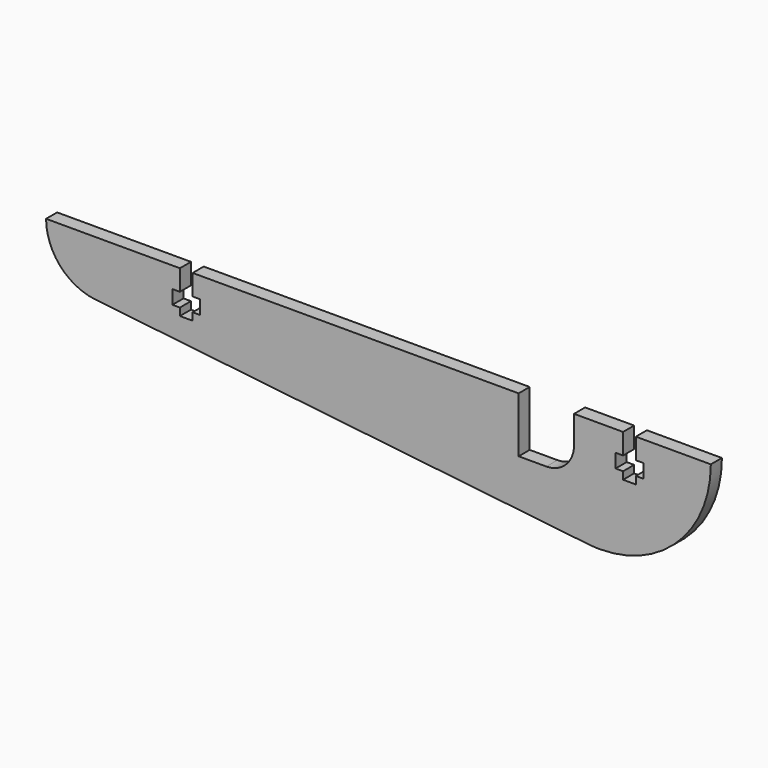
from build123d import *

# Parameters (mm, degrees)
F0_W     = 6.35
F0_H     = 3.175
F1_DEPTH = 3.175


with BuildPart() as f1:
    # F0 (on Front) → F1 (new body)
    with BuildSketch(Plane.XZ):
        with BuildLine():
            ThreePointArc((-28.2222222222, -25.242722946), (-44.3320422095, -16.9333333333), (-50.8, 0))
            Line((-50.8, 0), (-118.8018673797, 0))
            Line((-118.8018673797, 0), (-118.8018673797, -4.7625))
            Line((-118.8018673797, -4.7625), (-117.0873673797, -4.7625))
            Line((-117.0873673797, -4.7625), (-117.0873673797, -7.9375))
            Line((-117.0873673797, -7.9375), (-118.8018673797, -7.9375))
            Line((-118.8018673797, -7.9375), (-118.8018673797, -9.652))
            Line((-118.8018673797, -9.652), (-121.7228673797, -9.652))
            Line((-121.7228673797, -9.652), (-121.7228673797, -7.9375))
            Line((-121.7228673797, -7.9375), (-123.4373673797, -7.9375))
            Line((-123.4373673797, -7.9375), (-123.4373673797, -4.7625))
            Line((-123.4373673797, -4.7625), (-121.7228673797, -4.7625))
            Line((-121.7228673797, -4.7625), (-121.7228673797, 0))
            Line((-121.7228673797, 0), (-127, 0))
            ThreePointArc((-127, 0), (-131.2333333333, -9.4660211047), (-141.1111111111, -12.621361473))
            Line((-141.1111111111, -12.621361473), (-28.2222222222, -25.242722946))
        make_face()
        with Locations((-87.5789447389, -6.35)):
            Rectangle(F0_W, F0_H, mode=Mode.SUBTRACT)
        with Locations((-87.5789447389, -6.35)):
            Rectangle(F0_W, F0_H)
        with BuildLine():
            ThreePointArc((-28.2222222222, -25.242722946), (-26.8133006, -25.3606502561), (-25.4, -25.4))
            Line((-25.4, -25.4), (-25.4, 0))
            Line((-25.4, 0), (-31.3623673797, 0))
            Line((-31.3623673797, 0), (-31.3623673797, -6.35))
            Line((-31.3623673797, -6.35), (-31.3623673797, -12.7))
            Line((-31.3623673797, -12.7), (-37.7123673797, -12.7))
            Line((-37.7123673797, -12.7), (-44.0623673797, -12.7))
            Line((-44.0623673797, -12.7), (-44.0623673797, -6.35))
            Line((-44.0623673797, -6.35), (-44.0623673797, 0))
            Line((-44.0623673797, 0), (-50.8, 0))
            ThreePointArc((-50.8, 0), (-44.3320422095, -16.9333333333), (-28.2222222222, -25.242722946))
        make_face()
        with BuildLine():
            ThreePointArc((-28.2222222222, -25.242722946), (-26.8133006, -25.3606502561), (-25.4, -25.4))
            Line((-25.4, -25.4), (-25.4, 0))
            Line((-25.4, 0), (-31.3623673797, 0))
            Line((-31.3623673797, 0), (-31.3623673797, -6.35))
            Line((-31.3623673797, -6.35), (-31.3623673797, -12.7))
            Line((-31.3623673797, -12.7), (-37.7123673797, -12.7))
            Line((-37.7123673797, -12.7), (-44.0623673797, -12.7))
            Line((-44.0623673797, -12.7), (-44.0623673797, -6.35))
            Line((-44.0623673797, -6.35), (-44.0623673797, 0))
            Line((-44.0623673797, 0), (-50.8, 0))
            ThreePointArc((-50.8, 0), (-44.3320422095, -16.9333333333), (-28.2222222222, -25.242722946))
        make_face()
        with BuildLine():
            ThreePointArc((-28.2222222222, -25.242722946), (-26.8133006, -25.3606502561), (-25.4, -25.4))
            Line((-25.4, -25.4), (-25.4, 0))
            Line((-25.4, 0), (-31.3623673797, 0))
            Line((-31.3623673797, 0), (-31.3623673797, -6.35))
            Line((-31.3623673797, -6.35), (-31.3623673797, -12.7))
            Line((-31.3623673797, -12.7), (-37.7123673797, -12.7))
            Line((-37.7123673797, -12.7), (-44.0623673797, -12.7))
            Line((-44.0623673797, -12.7), (-44.0623673797, -6.35))
            Line((-44.0623673797, -6.35), (-44.0623673797, 0))
            Line((-44.0623673797, 0), (-50.8, 0))
            ThreePointArc((-50.8, 0), (-44.3320422095, -16.9333333333), (-28.2222222222, -25.242722946))
        make_face()
        with BuildLine():
            Line((-31.3623673797, -12.7), (-31.3623673797, -6.35))
            ThreePointArc((-31.3623673797, -6.35), (-33.2222393191, -10.8401280605), (-37.7123673797, -12.7))
            Line((-37.7123673797, -12.7), (-31.3623673797, -12.7))
        make_face()
        with BuildLine():
            ThreePointArc((-25.4, -25.4), (-7.4394877579, -17.9605122421), (0, 0))
            Line((0, 0), (-17.2018673797, 0))
            Line((-17.2018673797, 0), (-17.2018673797, -4.7625))
            Line((-17.2018673797, -4.7625), (-15.4873673797, -4.7625))
            Line((-15.4873673797, -4.7625), (-15.4873673797, -7.9375))
            Line((-15.4873673797, -7.9375), (-17.2018673797, -7.9375))
            Line((-17.2018673797, -7.9375), (-17.2018673797, -9.652))
            Line((-17.2018673797, -9.652), (-20.1228673797, -9.652))
            Line((-20.1228673797, -9.652), (-20.1228673797, -7.9375))
            Line((-20.1228673797, -7.9375), (-21.8373673797, -7.9375))
            Line((-21.8373673797, -7.9375), (-21.8373673797, -4.7625))
            Line((-21.8373673797, -4.7625), (-20.1228673797, -4.7625))
            Line((-20.1228673797, -4.7625), (-20.1228673797, 0))
            Line((-20.1228673797, 0), (-25.4, 0))
            Line((-25.4, 0), (-25.4, -25.4))
        make_face()
        with BuildLine():
            ThreePointArc((-152.4, 0), (-149.1660211047, -8.4666666667), (-141.1111111111, -12.621361473))
            ThreePointArc((-141.1111111111, -12.621361473), (-131.2333333333, -9.4660211047), (-127, 0))
            Line((-127, 0), (-152.4, 0))
        make_face()
    extrude(amount=F1_DEPTH)


solid = f1.part
